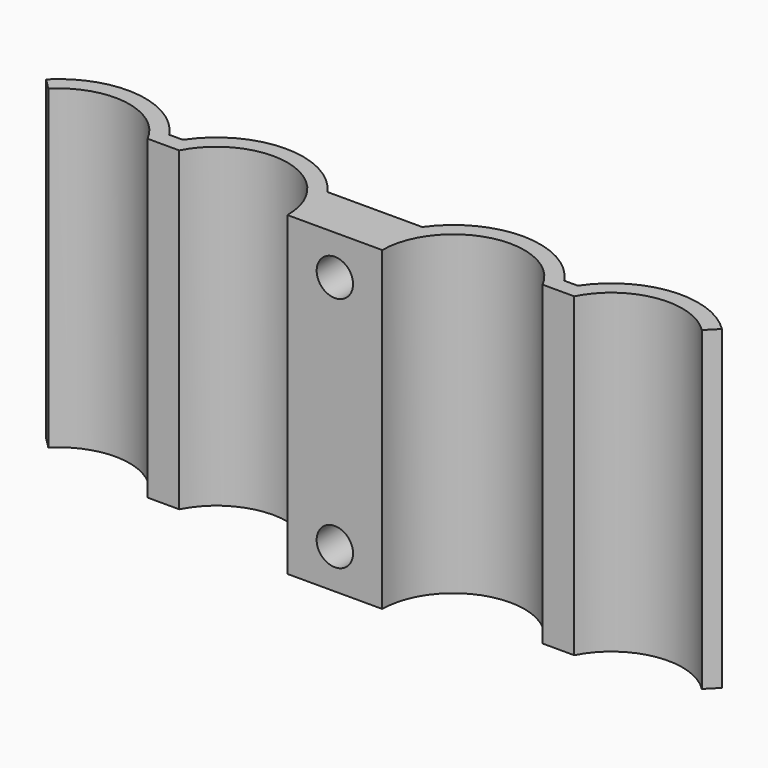
from build123d import *

# Parameters (mm, degrees)
F1_DEPTH = 31.75
F2_R     = 1.8288
F3_DEPTH = 5.020116


with BuildPart() as f1:
    # F0 (on Top) → F1 (new body)
    with BuildSketch(Plane.XY):
        with BuildLine():
            ThreePointArc((-18.25625, 3.272715), (-10.222452, 6.942477), (-4.7625, 0))
            Line((-4.7625, 0), (4.7625, 0))
            ThreePointArc((4.7625, 0), (10.222452, 6.942477), (18.25625, 3.272715))
            Line((18.25625, 3.272715), (21.43125, 3.272715))
            ThreePointArc((21.43125, 3.272715), (26.680106, 7.058374), (32.832644, 5.051394))
            Line((32.832644, 5.051394), (33.955176, 6.173926))
            ThreePointArc((33.955176, 6.173926), (26.931061, 8.689759), (20.527766, 4.860215))
            Line((20.527766, 4.860215), (19.159734, 4.860215))
            ThreePointArc((19.159734, 4.860215), (12.003216, 8.730712), (4.7625, 5.020116))
            Line((4.7625, 5.020116), (-4.7625, 5.020116))
            ThreePointArc((-4.7625, 5.020116), (-12.003216, 8.730712), (-19.159734, 4.860215))
            Line((-19.159734, 4.860215), (-20.527766, 4.860215))
            ThreePointArc((-20.527766, 4.860215), (-26.931061, 8.689759), (-33.955176, 6.173926))
            Line((-33.955176, 6.173926), (-32.832644, 5.051394))
            ThreePointArc((-32.832644, 5.051394), (-26.680106, 7.058374), (-21.43125, 3.272715))
            Line((-21.43125, 3.272715), (-18.25625, 3.272715))
        make_face()
    extrude(amount=F1_DEPTH)

    # F2 (on face) → F3 (cut, through all)
    with BuildSketch(Plane(origin=(0, 5.020116, 0), x_dir=(-1, 0, 0), z_dir=(0, 1, 0))):
        with Locations((0, 3.96875)):
            Circle(F2_R)
        with Locations((0, 27.78125)):
            Circle(F2_R)
    extrude(amount=-F3_DEPTH, mode=Mode.SUBTRACT)


solid = f1.part
